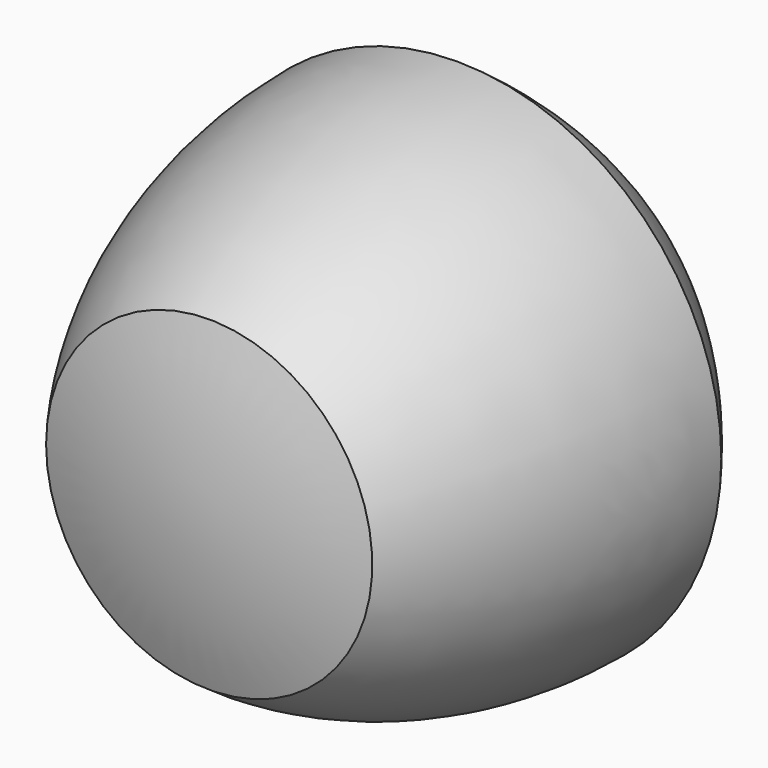
from build123d import *


with BuildPart() as f1:
    # F0 (on Top) → F1 (revolve)
    with BuildSketch(Plane.XY):
        with BuildLine():
            Line((-59.7189816329, 19.4038733715), (0, 62.792253257))
            ThreePointArc((0, 62.792253257), (-33.2955129488, 45.8273420556), (-59.7189816329, 19.4038733715))
        make_face()
        Polygon((0, -50.8), (0, 62.792253257), (-59.7189816329, 19.4038733715), (-36.9083604227, -50.8), align=None)
        with BuildLine():
            Line((-36.9083604227, -50.8), (-59.7189816329, 19.4038733715))
            ThreePointArc((-59.7189816329, 19.4038733715), (-53.8732716241, -17.5044870512), (-36.9083604227, -50.8))
        make_face()
        with BuildLine():
            Line((0, -56.6457100088), (0, -50.8))
            Line((0, -50.8), (-36.9083604227, -50.8))
            ThreePointArc((-36.9083604227, -50.8), (-18.684213889, -55.1752304851), (0, -56.6457100088))
        make_face()
    revolve(axis=Axis((0, -25.4, 0), (0, -1, 0)))


solid = f1.part
